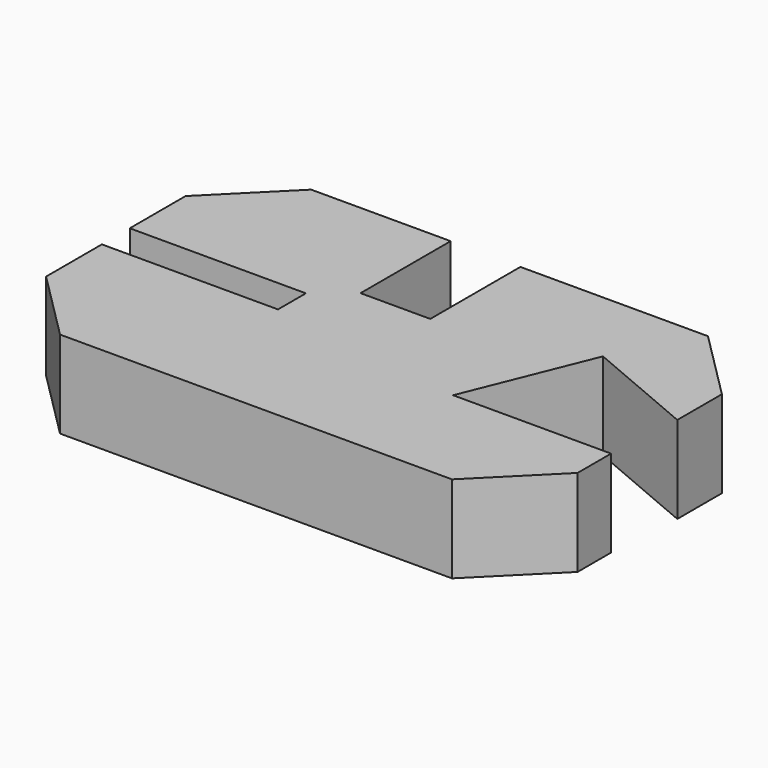
from build123d import *

# Parameters (mm, degrees)
F1_DEPTH = 25
F2_DEPTH = 25


with BuildPart() as f1:
    # F0 (on Top) → F1 (new body)
    with BuildSketch(Plane.XY):
        Polygon((-80.011122, -47.696578), (-60, -67.7077), (52.4, -67.7077), (72.411122, -47.696578), (72.411122, -35.696578), (27.111122, -35.696578), (41.533476, 0), (73.800592, -13.696578), (73.800592, 2.303422), (53.78947, 22.314544), (0, 22.314544), (0, -9.985456), (-20, -9.985456), (-20, 22.314544), (-60, 22.314544), (-80.011122, 2.303422), (-80.011122, -17.696578), (-29.511122, -17.696578), (-29.511122, -27.696578), (-80.011122, -27.696578), align=None)
    extrude(amount=F1_DEPTH)

    # F0 (on Top) → F2 (join)
    with BuildSketch(Plane.XY):
        Polygon((-80.011122, -47.696578), (-60, -67.7077), (52.4, -67.7077), (72.411122, -47.696578), (72.411122, -35.696578), (27.111122, -35.696578), (41.533476, 0), (73.800592, -13.696578), (73.800592, 2.303422), (53.78947, 22.314544), (0, 22.314544), (0, -9.985456), (-20, -9.985456), (-20, 22.314544), (-60, 22.314544), (-80.011122, 2.303422), (-80.011122, -17.696578), (-29.511122, -17.696578), (-29.511122, -27.696578), (-80.011122, -27.696578), align=None)
    extrude(amount=F2_DEPTH)


solid = f1.part
